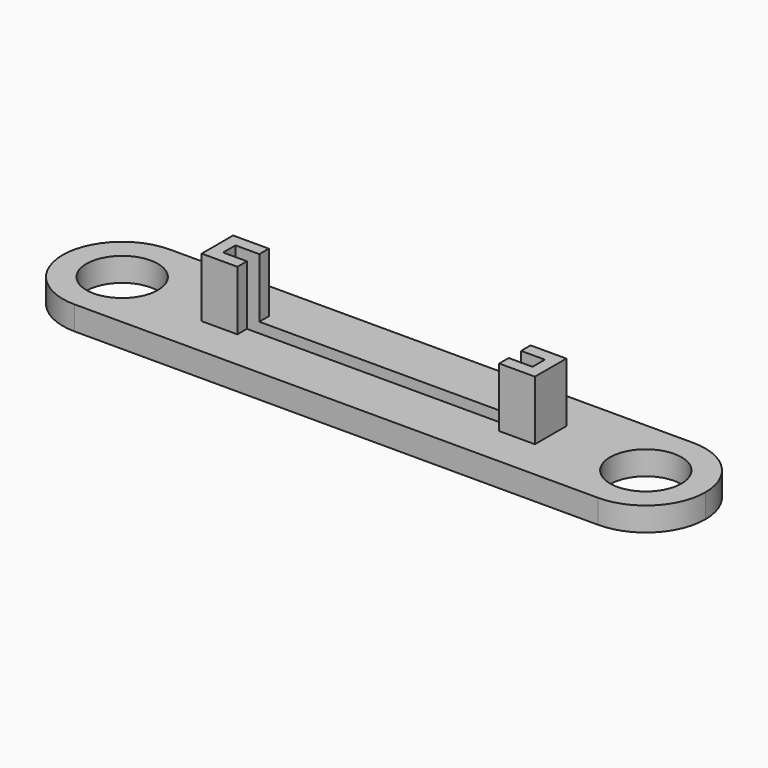
from build123d import *

# Parameters (mm, degrees)
F0_R     = 3
F1_DEPTH = 2
F3_DEPTH = 5
F2_W     = 11
F2_H     = 0.65
F2_W_2   = 2
F4_DEPTH = 1


with BuildPart() as f1:
    # F0 (on Top) → F1 (new body)
    with BuildSketch(Plane.XY):
        with BuildLine():
            ThreePointArc((31.2996847679, -5), (26.2996847679, 0), (31.2996847679, 5))
            Line((31.2996847679, 5), (-12.7003152321, 5))
            ThreePointArc((-12.7003152321, 5), (-9.1647813261, 3.5355339059), (-7.7003152321, 0))
            ThreePointArc((-7.7003152321, 0), (-9.1647813261, -3.5355339059), (-12.7003152321, -5))
            Line((-12.7003152321, -5), (31.2996847679, -5))
        make_face()
        with BuildLine():
            ThreePointArc((-7.7003152321, 0), (-9.1647813261, 3.5355339059), (-12.7003152321, 5))
            ThreePointArc((-12.7003152321, 5), (-17.7003152321, 0), (-12.7003152321, -5))
            ThreePointArc((-12.7003152321, -5), (-9.1647813261, -3.5355339059), (-7.7003152321, 0))
        make_face()
        with Locations((-12.7003152321, 0)):
            Circle(F0_R, mode=Mode.SUBTRACT)
        with BuildLine():
            ThreePointArc((31.2996847679, -5), (34.8352186739, -3.5355339059), (36.2996847679, 0))
            ThreePointArc((36.2996847679, 0), (34.8352186739, 3.5355339059), (31.2996847679, 5))
            ThreePointArc((31.2996847679, 5), (26.2996847679, 0), (31.2996847679, -5))
        make_face()
        with Locations((31.2996847679, 0)):
            Circle(F0_R, mode=Mode.SUBTRACT)
    extrude(amount=F1_DEPTH)

    # F2 (on face) → F3 (join)
    with BuildSketch(Plane.XY.offset(2)):
        Polygon((-3.7003152321, 0), (-4.7003152321, 0), (-4.7003152321, -1.65), (-1.7003152321, -1.65), (-1.7003152321, -0.65), (-3.7003152321, -0.65), align=None)
        Polygon((-1.7003152321, 0.65), (-1.7003152321, 1.65), (-4.7003152321, 1.65), (-4.7003152321, 0), (-3.7003152321, 0), (-3.7003152321, 0.65), align=None)
        Polygon((23.2996847679, 1.65), (20.2996847679, 1.65), (20.2996847679, 0.65), (22.2996847679, 0.65), (22.2996847679, 0), (23.2996847679, 0), align=None)
        Polygon((23.2996847679, -1.65), (23.2996847679, 0), (22.2996847679, 0), (22.2996847679, -0.65), (20.2996847679, -0.65), (20.2996847679, -1.65), align=None)
    extrude(amount=F3_DEPTH)

    # F2 (on face) → F4 (cut)
    with BuildSketch(Plane.XY.offset(2)):
        with Locations((3.7996847679, -0.325)):
            Rectangle(F2_W, F2_H)
        with Locations((3.7996847679, 0.325)):
            Rectangle(F2_W, F2_H)
        with Locations((-2.7003152321, -0.325)):
            Rectangle(F2_W_2, F2_H)
        with Locations((-2.7003152321, 0.325)):
            Rectangle(F2_W_2, F2_H)
        with Locations((14.7996847679, -0.325)):
            Rectangle(F2_W, F2_H)
        with Locations((14.7996847679, 0.325)):
            Rectangle(F2_W, F2_H)
        with Locations((21.2996847679, -0.325)):
            Rectangle(F2_W_2, F2_H)
        with Locations((21.2996847679, 0.325)):
            Rectangle(F2_W_2, F2_H)
    extrude(amount=-F4_DEPTH, mode=Mode.SUBTRACT)


solid = f1.part
